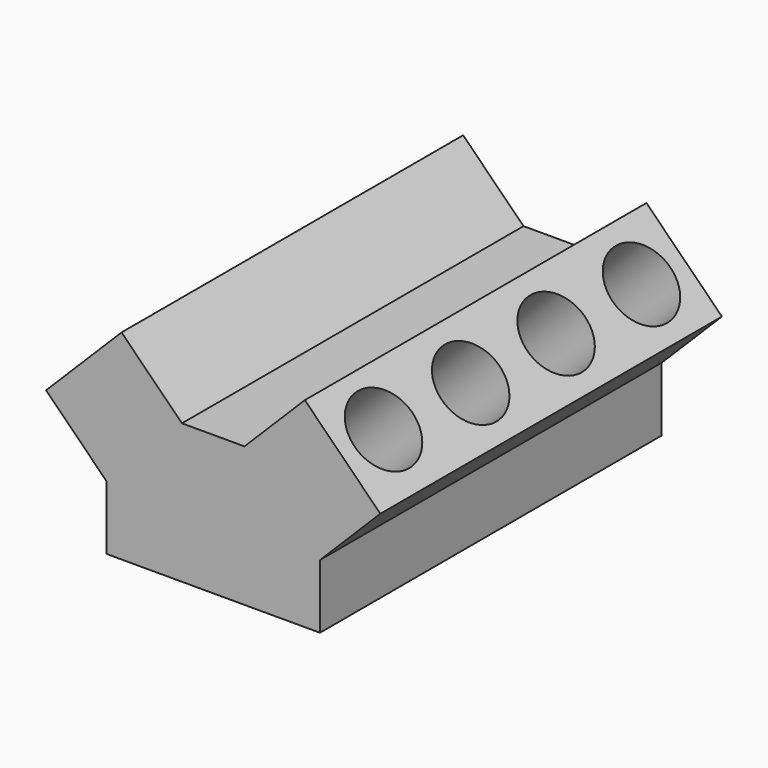
from build123d import *

# Parameters (mm, degrees)
F1_DEPTH = 100
F2_W     = 46
F2_H     = 96
F3_DEPTH = 15
F4_R     = 8.5
F5_DEPTH = 50.2
F6_R     = 8.5
F7_DEPTH = 63.4


with BuildPart() as f1:
    # F0 (on Front) → F1 (new body)
    with BuildSketch(Plane.XZ):
        Polygon((-25, -8.442136), (0, -8.442136), (25, -8.442136), (25, 6.557864), (39.142136, 20.7), (21.464466, 38.377669), (7.32233, 24.235533), (0, 24.235533), (-7.32233, 24.235533), (-21.464466, 38.377669), (-39.142136, 20.7), (-25, 6.557864), align=None)
    extrude(amount=F1_DEPTH)

    # F2 (on face) → F3 (cut)
    with BuildSketch(Plane(origin=(0, 0, -8.442136), x_dir=(1, 0, 0), z_dir=(0, 0, -1))):
        with Locations((0, 50)):
            Rectangle(F2_W, F2_H)
    extrude(amount=-F3_DEPTH, mode=Mode.SUBTRACT)

    # F4 (on face) → F5 (cut)
    with BuildSketch(Plane(origin=(29.921068, 0, 29.921068), x_dir=(0.707107, 0, -0.707107), z_dir=(0.707107, 0, 0.707107))):
        with Locations((-0.046836, -87.5)):
            Circle(F4_R)
        with Locations((0.54056, -62.5)):
            Circle(F4_R)
        with Locations((0.54056, -37.5)):
            Circle(F4_R)
        with Locations((0.54056, -12.5)):
            Circle(F4_R)
    extrude(amount=-F5_DEPTH, mode=Mode.SUBTRACT)

    # F6 (on face) → F7 (cut)
    with BuildSketch(Plane(origin=(-29.921068, 0, 29.921068), x_dir=(0.707107, 0, 0.707107), z_dir=(-0.707107, 0, 0.707107))):
        with Locations((-0.54056, -12.5)):
            Circle(F6_R)
        with Locations((-0.54056, -37.5)):
            Circle(F6_R)
        with Locations((-0.54056, -62.5)):
            Circle(F6_R)
        with Locations((-0.54056, -87.5)):
            Circle(F6_R)
    extrude(amount=-F7_DEPTH, mode=Mode.SUBTRACT)


solid = f1.part
